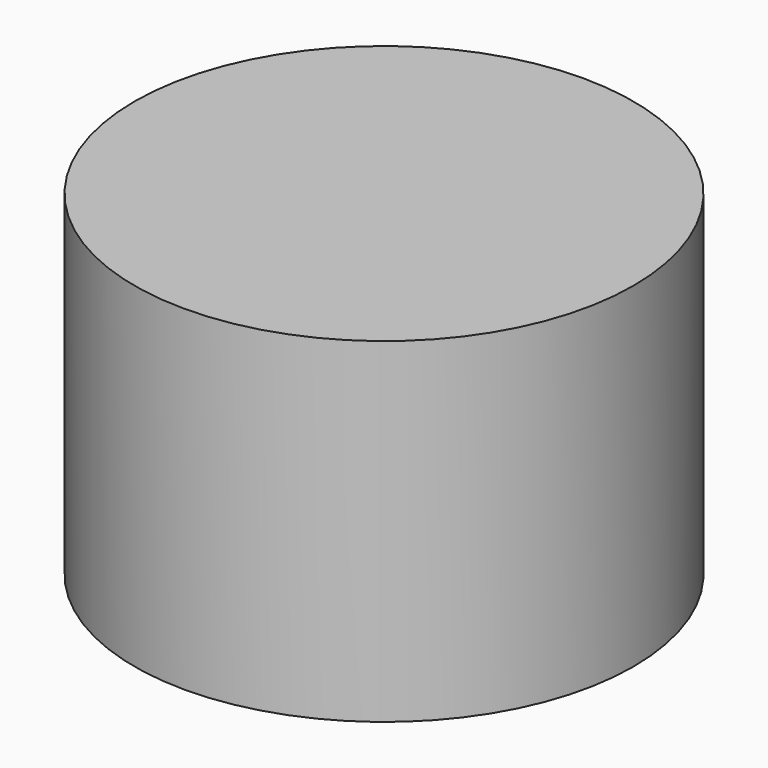
from build123d import *

# Parameters (mm, degrees)
F0_R     = 89.01844
F0_R_2   = 72.869478
F1_DEPTH = 119.634


with BuildPart() as f1:
    # F0 (on Top) → F1 (new body)
    with BuildSketch(Plane.XY):
        Circle(F0_R)
        with Locations((0, 5.845245)):
            Circle(F0_R_2, mode=Mode.SUBTRACT)
        with Locations((0, 5.845245)):
            Circle(F0_R_2)
    extrude(amount=F1_DEPTH)


solid = f1.part
